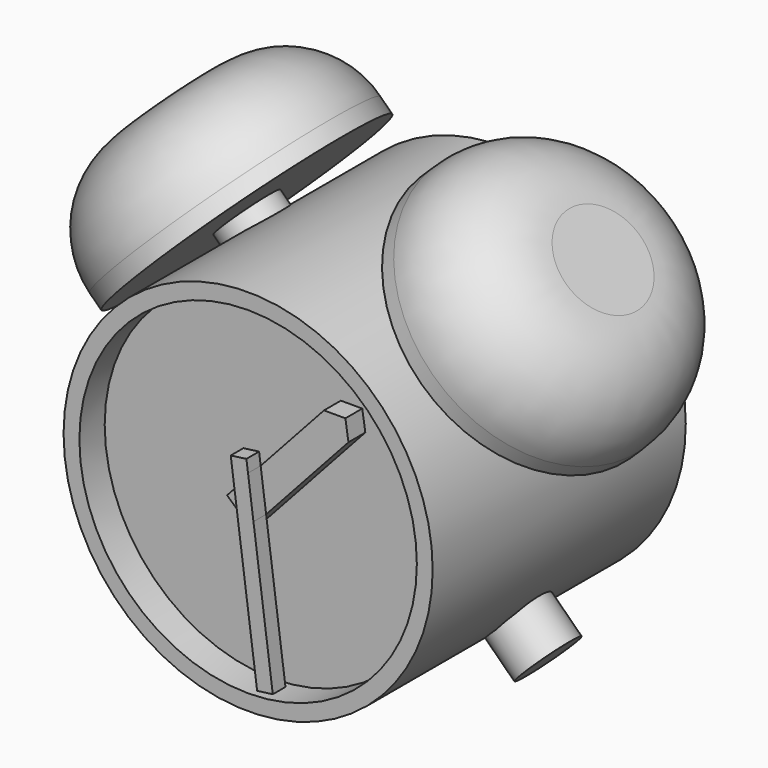
from build123d import *

# Parameters (mm, degrees)
F0_R      = 17.5
F1_DEPTH  = 30
F2_R      = 16
F3_DEPTH  = 3
F7_R      = 8.4497474683
F10_DEPTH = 2
F12_DEPTH = 1.5


with BuildPart() as f1:
    # F0 (on Front) → F1 (new body)
    with BuildSketch(Plane.XZ):
        Circle(F0_R)
    extrude(amount=F1_DEPTH)

    # F2 (on face) → F3 (cut)
    with BuildSketch(Plane.XZ.offset(30)):
        Circle(F2_R)
    extrude(amount=-F3_DEPTH, mode=Mode.SUBTRACT)


with BuildPart() as f6:
    # F5 (on mid) → F6 (revolve)
    with BuildSketch(Plane(origin=(0, -13.5, 0), x_dir=(-1, 0, 0), z_dir=(0, 1, 0))):
        Polygon((11.2167216087, 15.2814061035), (18.3561041689, 22.2834926967), (11.3540175757, 29.4228752569), (4.2146350155, 22.4207886637), align=None)
        Polygon((-15.2401826543, -14.8687550374), (20.4567301469, 20.1416779286), (18.3561041689, 22.2834926967), (11.2167216087, 15.2814061035), (-17.3408086323, -12.7269402693), align=None)
    revolve(axis=Axis((-2.6082737463, -13.5, 2.6364614456), (0.713938256, 0, -0.7002086593)))

    # F7
    f7_edges = [f6.edges().sort_by_distance(p)[0] for p in [
        (-29.559443, -13.5, 10.860481),
    ]]
    fillet(f7_edges, radius=F7_R)


with BuildPart() as f8_1:
    # F8: instance of F6
    add(f6.part.mirror(Plane.YZ))


with BuildPart() as f10:
    # F9 (on face) → F10 (new body)
    with BuildSketch(Plane.XZ.offset(27)):
        Polygon((6.3925895488, 9.2935226517), (-2.7951505678, -0.7762410672), (-0.5789937455, -2.7982818528), (8.7133899779, 7.3861712654), (8.4231317715, 9.2935226517), align=None)
    extrude(amount=F10_DEPTH)


with BuildPart() as f12:
    # F11 (on face) → F12 (new body)
    with BuildSketch(Plane.XZ.offset(29)):
        Polygon((0.9061819389, -1.1705292136), (-0.4146567124, -2.6181684547), (1.2542340306, -15.1787668308), (2.7411665382, -14.9812023658), align=None)
        Polygon((0.2386833157, 3.8532760639), (-1.2482491919, 3.655711599), (-0.9308694085, 1.2670111952), (0.3899692428, 2.7146504363), align=None)
        Polygon((0.3899692428, 2.7146504363), (-0.9308694085, 1.2670111952), (-0.4146567124, -2.6181684547), (0.9061819389, -1.1705292136), align=None)
    extrude(amount=F12_DEPTH)


solid = Compound([f1.part, f6.part, f8_1.part, f10.part, f12.part])
